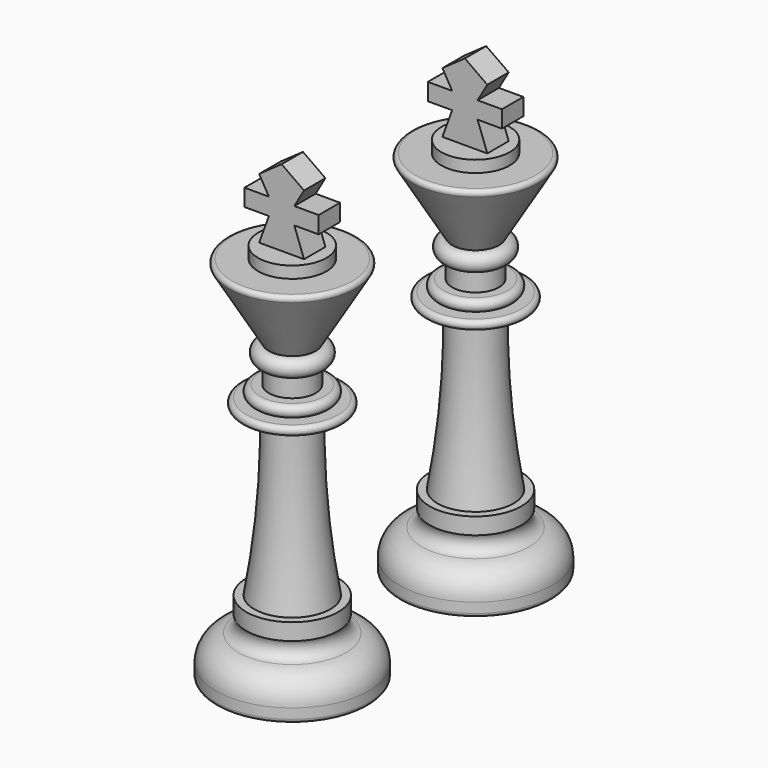
from build123d import *

# Parameters (mm, degrees)
F3_DEPTH = 3.5
F4_R     = 1


with BuildPart() as f1:
    # F0 (on Front) → F1 (revolve)
    with BuildSketch(Plane.XZ):
        with BuildLine():
            Line((0, -60), (0, 40))
            Line((0, 40), (-8.948863, 39.86881))
            Line((-8.948863, 39.86881), (-8.948863, 36.796879))
            Line((-8.948863, 36.796879), (-17.543017, 36.796879))
            Line((-17.543017, 36.796879), (-6.136362, 17.514205))
            ThreePointArc((-6.136362, 17.514205), (-8.707342, 15.213069), (-6.136362, 12.911933))
            Line((-6.136362, 12.911933), (-6.136362, 7.798295))
            Line((-6.136362, 7.798295), (-8.437498, 7.798295))
            ThreePointArc((-8.437498, 7.798295), (-9.971589, 6.264205), (-8.437498, 4.730114))
            Line((-8.437498, 4.730114), (-12.017046, 4.730114))
            ThreePointArc((-12.017046, 4.730114), (-13.167614, 3.579546), (-12.017046, 2.428978))
            Line((-12.017046, 2.428978), (-6.647727, 2.428978))
            ThreePointArc((-6.647727, 2.428978), (-7.248338, -19.257777), (-9.971592, -40.781252))
            Line((-9.971592, -40.781252), (-12.017046, -40.781252))
            Line((-12.017046, -40.781252), (-12.017046, -45.127843))
            ThreePointArc((-12.017046, -45.127843), (-11.887704, -47.843289), (-14.0625, -49.474437))
            ThreePointArc((-14.0625, -49.474437), (-18.311439, -51.825073), (-20, -56.377847))
            Line((-20, -56.377847), (-20, -60))
            Line((-20, -60), (0, -60))
        make_face()
    revolve(axis=Axis((0, 0, -10.866478), (0, 0, -1)))

    # F2 (on Front) → F3 (join, symmetric)
    with BuildSketch(Plane.XZ):
        Polygon((-5.88068, 40), (0, 40), (5.88068, 40), (3.323866, 46.970773), (9.705599, 46.970773), (9.705599, 51.434688), (3.323866, 51.434688), (5.88068, 55.85228), (0, 60), (-5.88068, 55.85228), (-3.323866, 51.434688), (-9.705599, 51.434688), (-9.705599, 46.970773), (-3.323866, 46.970773), align=None)
    extrude(amount=F3_DEPTH, both=True)

    # F4
    f4_edges = [f1.edges().sort_by_distance(p)[0] for p in [
        (17.543017, 0, 36.796879),
        (20, 0, -60),
    ]]
    fillet(f4_edges, radius=F4_R)


with BuildPart() as f6_1:
    # F6: instance of F1
    add(f1.part.mirror(Plane.XZ.offset(30)))


solid = Compound([f1.part, f6_1.part])
